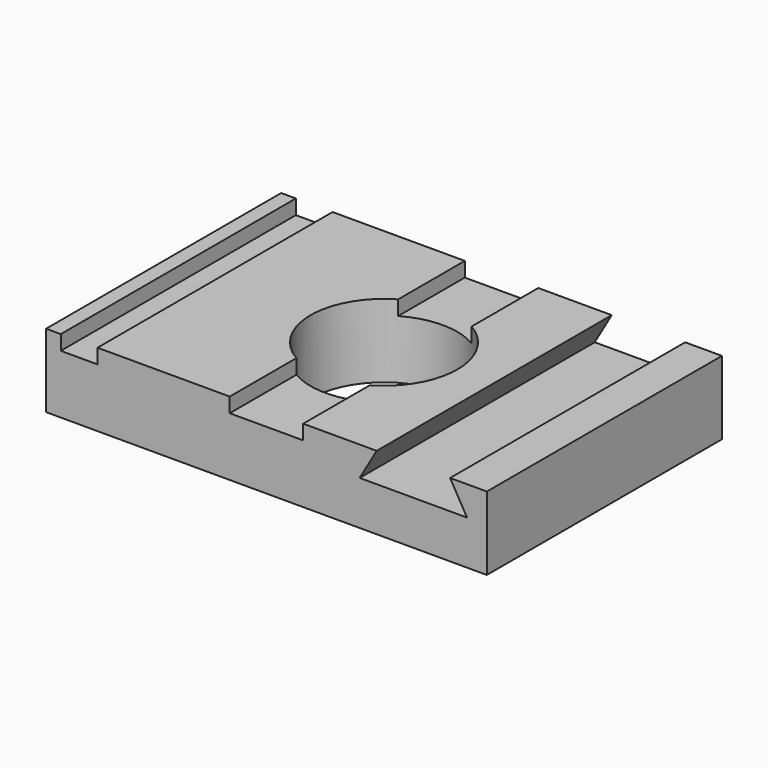
from build123d import *

# Parameters (mm, degrees)
F0_W     = 76.2
F0_H     = 50.8
F0_R     = 12.7
F1_DEPTH = 12.7
F2_W     = 6.35
F2_H     = 50.8
F3_DEPTH = 2.54
F5_DEPTH = 50.801


with BuildPart() as f1:
    # F0 (on Top) → F1 (new body)
    with BuildSketch(Plane.XY):
        Rectangle(F0_W, F0_H)
        Circle(F0_R, mode=Mode.SUBTRACT)
    extrude(amount=F1_DEPTH)

    # F2 (on face) → F3 (cut)
    with BuildSketch(Plane.XY.offset(12.7)):
        with Locations((-32.385, 0)):
            Rectangle(F2_W, F2_H)
        with BuildLine():
            Line((6.35, 25.4), (-6.35, 25.4))
            Line((-6.35, 25.4), (-6.35, 10.9985226281))
            ThreePointArc((-6.35, 10.9985226281), (0, 12.7), (6.35, 10.9985226281))
            Line((6.35, 10.9985226281), (6.35, 25.4))
        make_face()
        with BuildLine():
            Line((-6.35, -10.9985226281), (-6.35, -25.4))
            Line((-6.35, -25.4), (6.35, -25.4))
            Line((6.35, -25.4), (6.35, -10.9985226281))
            ThreePointArc((6.35, -10.9985226281), (0, -12.7), (-6.35, -10.9985226281))
        make_face()
    extrude(amount=-F3_DEPTH, mode=Mode.SUBTRACT)

    # F4 (on face) → F5 (cut, through all)
    with BuildSketch(Plane.XZ.offset(25.4)):
        Polygon((31.75, 12.7), (19.05, 12.7), (16.1170606325, 7.62), (34.6829393675, 7.62), align=None)
    extrude(amount=-F5_DEPTH, mode=Mode.SUBTRACT)


solid = f1.part
